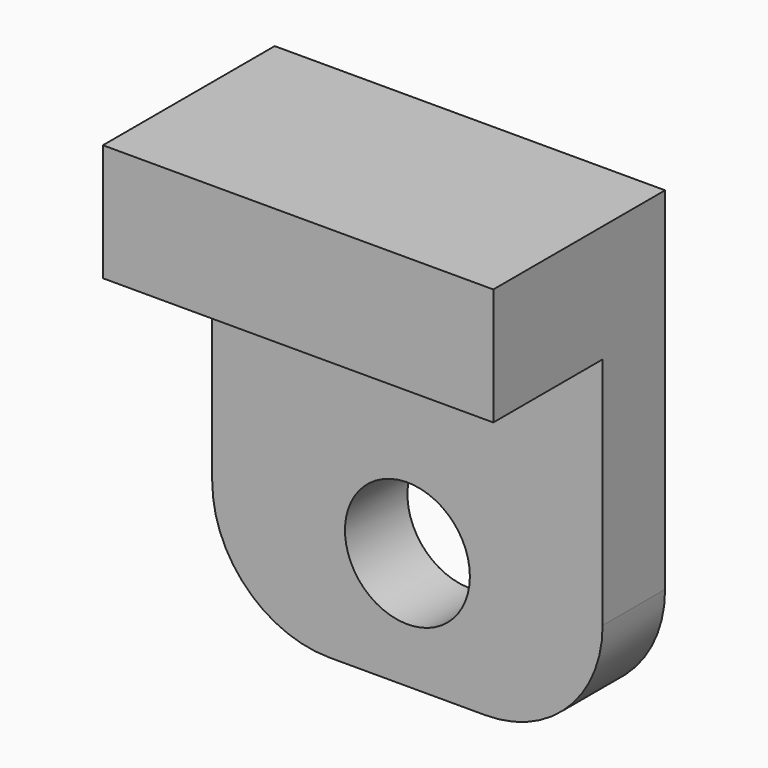
from build123d import *

# Parameters (mm, degrees)
BOX183_W          = 10
BOX183_H          = 3.5
BOX183_DEPTH      = 3
CYLINDER072_R     = 1.6
CYLINDER072_DEPTH = 2
BOX181_W          = 10
BOX181_H          = 2
BOX181_DEPTH      = 12
FILLET040_R       = 3


with BuildPart() as cube172:
    # Box183 → Box183 (new body)
    with BuildSketch(Plane(origin=(79, 29.5, -16), x_dir=(1, 0, 0), z_dir=(0, 0, 1))):
        with Locations((5, 1.75)):
            Rectangle(BOX183_W, BOX183_H)
    extrude(amount=BOX183_DEPTH)


with BuildPart() as cylinder153:
    # Cylinder072 → Cylinder072 (new body)
    with BuildSketch(Plane(origin=(84, 35, -22), x_dir=(1, 0, 0), z_dir=(0, -1, 0))):
        Circle(CYLINDER072_R)
    extrude(amount=CYLINDER072_DEPTH)


with BuildPart() as fusion056:
    # Box181 → Box181 (new body)
    with BuildSketch(Plane(origin=(79, 33, -25), x_dir=(1, 0, 0), z_dir=(0, 0, 1))):
        with Locations((5, 1)):
            Rectangle(BOX181_W, BOX181_H)
    extrude(amount=BOX181_DEPTH)

    # Cut095: cut Cylinder153
    add(cylinder153.part, mode=Mode.SUBTRACT)

    # Fillet040
    fillet040_edges = [fusion056.edges().sort_by_distance(p)[0] for p in [
        (79, 34, -25),
        (89, 34, -25),
    ]]
    fillet(fillet040_edges, radius=FILLET040_R)

    # Fusion056: union Cube172
    add(cube172.part)


solid = fusion056.part
